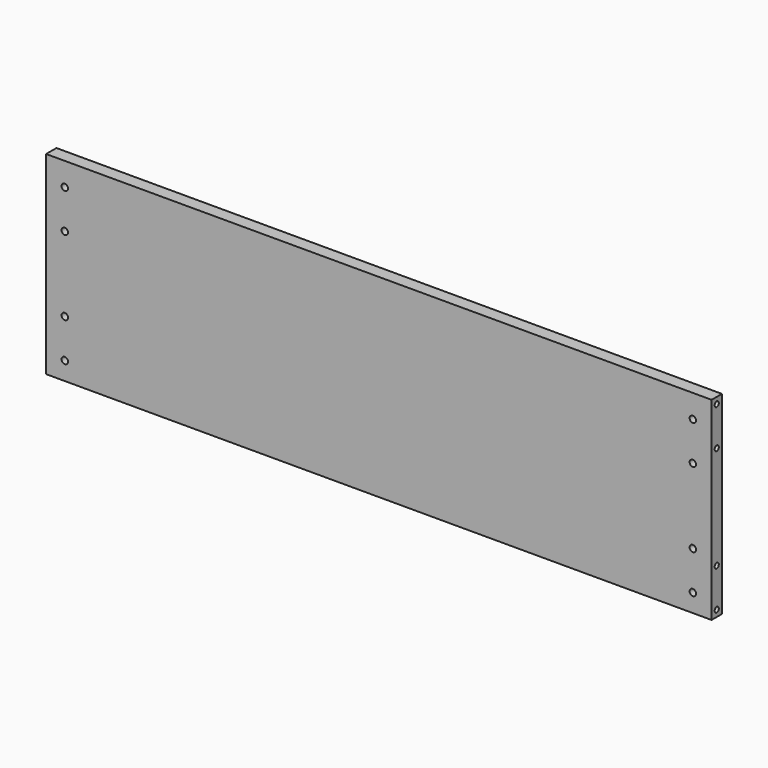
from build123d import *

# Parameters (mm, degrees)
F0_W     = 515
F0_H     = 150
F0_R     = 2.5
F1_DEPTH = 10
F2_R     = 2
F3_DEPTH = 15
F4_R     = 2
F5_DEPTH = 15


with BuildPart() as f1:
    # F0 (on Front) → F1 (new body)
    with BuildSketch(Plane.XZ):
        with Locations((1.829247, 56.667644)):
            Rectangle(F0_W, F0_H)
        with Locations((-241.170753, -4.332356)):
            Circle(F0_R, mode=Mode.SUBTRACT)
        with Locations((-241.170753, 25.667644)):
            Circle(F0_R, mode=Mode.SUBTRACT)
        with Locations((244.829247, -4.332356)):
            Circle(F0_R, mode=Mode.SUBTRACT)
        with Locations((244.829247, 25.667644)):
            Circle(F0_R, mode=Mode.SUBTRACT)
        with Locations((-241.170753, 83.667644)):
            Circle(F0_R, mode=Mode.SUBTRACT)
        with Locations((-241.170753, 113.667644)):
            Circle(F0_R, mode=Mode.SUBTRACT)
        with Locations((244.829247, 83.667644)):
            Circle(F0_R, mode=Mode.SUBTRACT)
        with Locations((244.829247, 113.667644)):
            Circle(F0_R, mode=Mode.SUBTRACT)
    extrude(amount=F1_DEPTH)

    # F2 (on face) → F3 (cut)
    with BuildSketch(Plane(origin=(-255.670753, 0, 0), x_dir=(0, -1, 0), z_dir=(-1, 0, 0))):
        with Locations((5, -13.332356)):
            Circle(F2_R)
        with Locations((5, 126.667644)):
            Circle(F2_R)
        with Locations((5, 96.667644)):
            Circle(F2_R)
        with Locations((5, 16.667644)):
            Circle(F2_R)
    extrude(amount=-F3_DEPTH, mode=Mode.SUBTRACT)

    # F4 (on face) → F5 (cut)
    with BuildSketch(Plane.YZ.offset(259.329247)):
        with Locations((-5, 96.667644)):
            Circle(F4_R)
        with Locations((-5, -13.332356)):
            Circle(F4_R)
        with Locations((-5, 126.667644)):
            Circle(F4_R)
        with Locations((-5, 16.667644)):
            Circle(F4_R)
    extrude(amount=-F5_DEPTH, mode=Mode.SUBTRACT)


solid = f1.part
